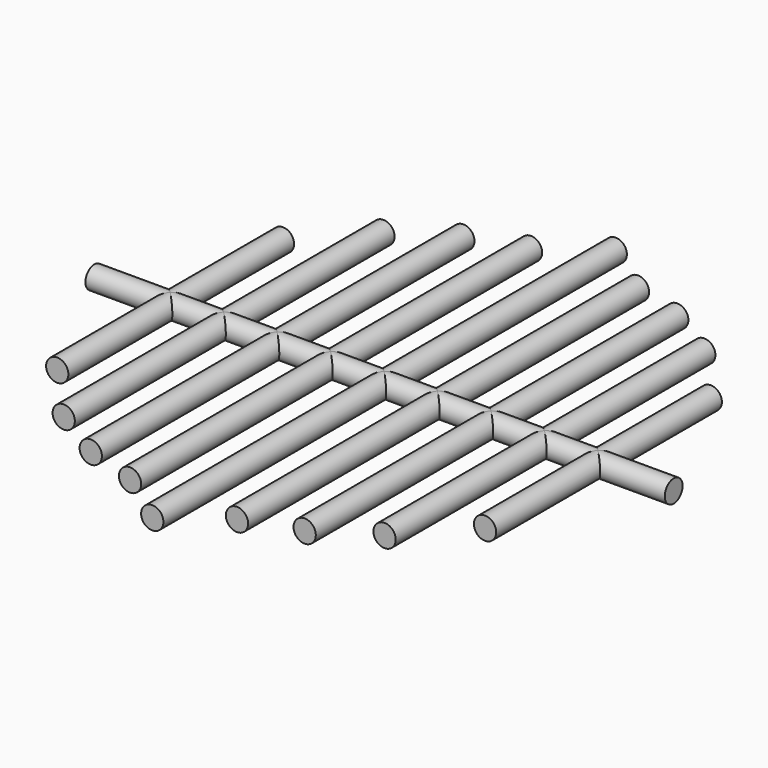
from build123d import *

# Parameters (mm, degrees)
F3_R  = 6.35
F6_R  = 6.35
F9_R  = 6.35
F12_R = 6.35
F15_R = 6.35
F18_R = 6.35


with BuildPart() as f4:
    # F4: sweep along a path in F0
    with BuildLine(Plane.XY) as f4_path:
        Line((0, -165.1), (0, 165.1))
    # F3 (on plane+point) → F4 (sweep)
    with BuildSketch(Plane.XZ.offset(-165.1)):
        Circle(F3_R)
    sweep(path=f4_path.line)

    # F7: sweep along a path in F0
    with BuildLine(Plane.XY) as f7_path:
        Line((-165.1, 0), (165.1, 0))
    # F6 (on plane+point) → F7 (sweep)
    with BuildSketch(Plane.YZ.offset(165.1)):
        Circle(F6_R)
    sweep(path=f7_path.line)

    # F10: sweep along a path in F0
    with BuildLine(Plane.XY) as f10_path:
        Line((30.48, -142.8340719156), (30.48, 142.8340719156))
    # F9 (on plane+point) → F10 (sweep)
    with BuildSketch(Plane.XZ.offset(142.8340719156)):
        with Locations((30.48, 0)):
            Circle(F9_R)
    sweep(path=f10_path.line)

    # F13: sweep along a path in F0
    with BuildLine(Plane.XY) as f13_path:
        Line((60.96, -132.719557338), (60.96, 132.719557338))
    # F12 (on plane+point) → F13 (sweep)
    with BuildSketch(Plane.XZ.offset(132.719557338)):
        with Locations((60.96, 0)):
            Circle(F12_R)
    sweep(path=f13_path.line)

    # F16: sweep along a path in F0
    with BuildLine(Plane.XY) as f16_path:
        Line((91.44, -113.8829614121), (91.44, 113.8829614121))
    # F15 (on plane+point) → F16 (sweep)
    with BuildSketch(Plane.XZ.offset(113.8829614121)):
        with Locations((91.44, 0)):
            Circle(F15_R)
    sweep(path=f16_path.line)

    # F19: sweep along a path in F0
    with BuildLine(Plane.XY) as f19_path:
        Line((121.92, -80.4121638808), (121.92, 80.4121638808))
    # F18 (on plane+point) → F19 (sweep)
    with BuildSketch(Plane.XZ.offset(80.4121638808)):
        with Locations((121.92, 0)):
            Circle(F18_R)
    sweep(path=f19_path.line)

    # F20: F4 across plane


with BuildPart() as f4_1:
    add(f4.part)
    add(f4.part.mirror(Plane.YZ))


solid = f4_1.part
